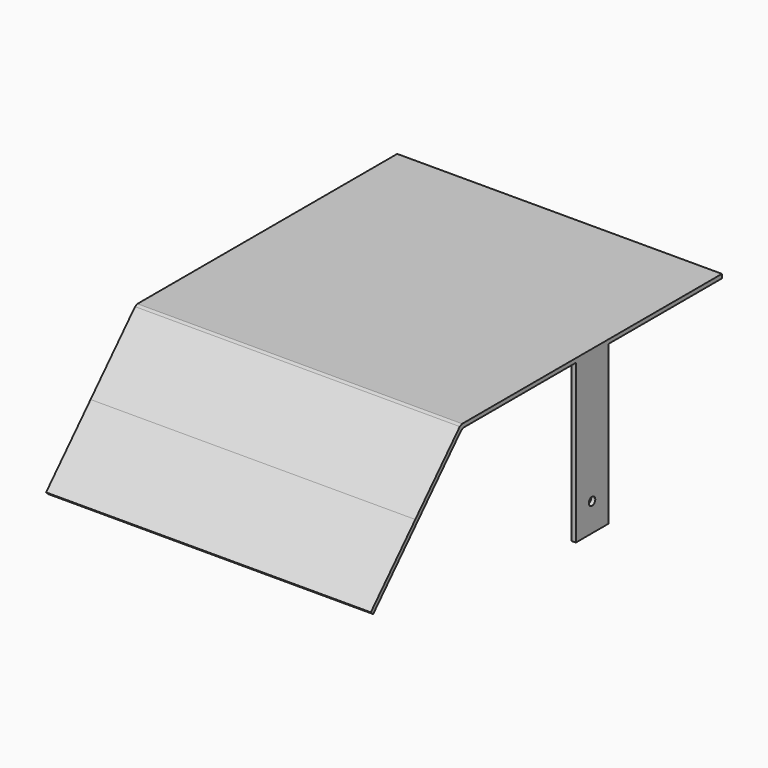
from build123d import *

# Parameters (mm, degrees)
F0_W          = 101.6
F0_H          = 101.6
F1_DEPTH      = 1.27
F3_DEPTH      = 50.8
F3_DEPTH_BACK = 50.8
F4_W          = 12.7
F4_H          = 49.53
F5_DEPTH      = 1.27
F8_D          = 2.54
F9_R          = 2.54


with BuildPart() as f1:
    # F0 (on Top) → F1 (new body)
    with BuildSketch(Plane.XY):
        Rectangle(F0_W, F0_H)
    extrude(amount=F1_DEPTH)

    # F2 (on Right) → F3 (join, two sides)
    with BuildSketch(Plane.YZ) as f3_sk:
        Polygon((-68.1977470568, -18.5061718718), (-50.8, 0), (-51.7253085936, 0.8698873528), (-69.1230556503, -17.636284519), align=None)
        Polygon((-85.5954941135, -37.0123437436), (-68.1977470568, -18.5061718718), (-69.1230556503, -17.636284519), (-86.5208027071, -36.1424563908), align=None)
        Polygon((-51.7253085936, 0.8698873528), (-50.8, 0), (-50.8, 1.27), align=None)
    extrude(amount=F3_DEPTH)
    extrude(f3_sk.sketch, amount=-F3_DEPTH_BACK)

    # F4 (on face) → F5 (join)
    with BuildSketch(Plane(origin=(-50.8, 0, 0), x_dir=(0, -1, 0), z_dir=(-1, 0, 0))):
        with Locations((0, -24.765)):
            Rectangle(F4_W, F4_H)
    extrude(amount=-F5_DEPTH)

    # F6: F1 across plane


with BuildPart() as f1_1:
    add(f1.part)
    add(f1.part.mirror(Plane.YZ))

    # F8 (through all)
    with Locations(Plane(origin=(-50.8, 0, 0), x_dir=(0, -1, 0), z_dir=(-1, 0, 0))):
        with Locations((0, -40.7161329025)):
            Hole(F8_D / 2)

    # F9
    f9_edges = [f1_1.edges().sort_by_distance(p)[0] for p in [
        (0, -50.8, 0),
    ]]
    fillet(f9_edges, radius=F9_R)


solid = f1_1.part
